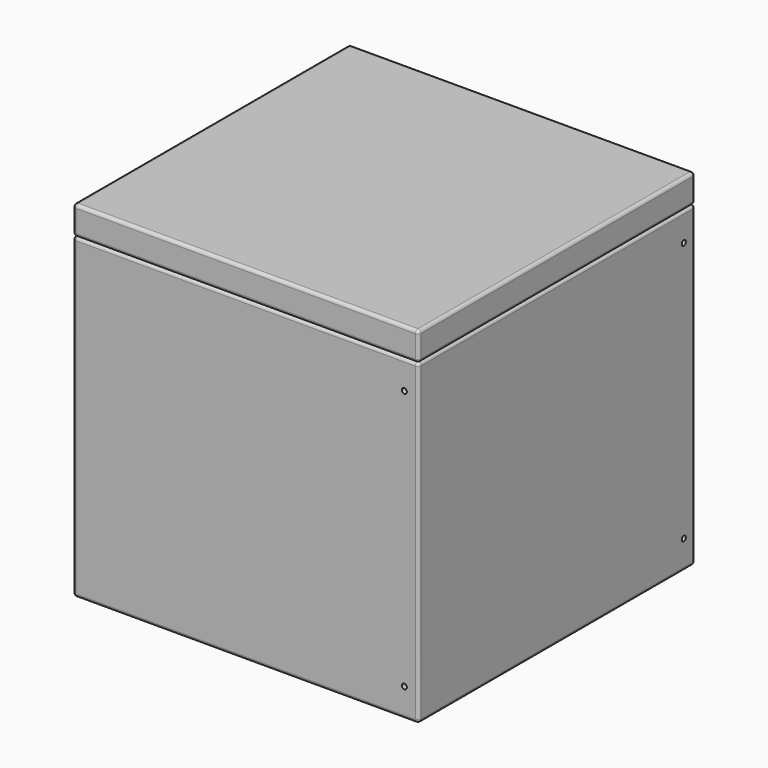
from build123d import *

# Parameters (mm, degrees)
F0_W      = 218
F0_H      = 218
F1_DEPTH  = 200
F2_T      = -18
F3_W      = 218
F3_H      = 218
F3_W_2    = 182
F3_H_2    = 182
F4_DEPTH  = 18
F5_R      = 2
F6_R      = 2
F7_W      = 40
F7_H      = 10
F8_DEPTH  = 1
F9_R      = 1.6
F10_DEPTH = 50
F11_R     = 1.6
F12_DEPTH = 50
F13_R     = 1.6
F14_DEPTH = 50
F15_R     = 1.6
F16_DEPTH = 50


with BuildPart() as f1:
    # F0 (on Top) → F1 (new body)
    with BuildSketch(Plane.XY):
        Rectangle(F0_W, F0_H)
    extrude(amount=F1_DEPTH)

    # F2
    f2_openings = [f1.faces().sort_by_distance(p)[0] for p in [
        (0, 0, 200),
    ]]
    offset(amount=F2_T, openings=f2_openings)

    # F6
    f6_edges = [f1.edges().sort_by_distance(p)[0] for p in [
        (-109, 0, 200),
        (-91, 0, 200),
        (0, 91, 200),
        (91, 0, 200),
        (0, -91, 200),
        (-91, -91, 109),
        (-91, 0, 18),
        (-91, 91, 109),
        (0, 91, 18),
        (91, 91, 109),
        (91, -91, 109),
        (91, 0, 18),
        (0, -91, 18),
        (0, 109, 200),
        (109, 0, 200),
        (0, -109, 200),
        (0, -109, 0),
        (-109, -109, 100),
        (109, -109, 100),
        (109, 0, 0),
        (109, 109, 100),
        (0, 109, 0),
        (-109, 109, 100),
        (-109, 0, 0),
    ]]
    fillet(f6_edges, radius=F6_R)


with BuildPart() as f4:
    # F3 (on face) → F4 (new body)
    with BuildSketch(Plane.XY.offset(200)):
        Rectangle(F3_W, F3_H)
        Rectangle(F3_W_2, F3_H_2, mode=Mode.SUBTRACT)
        Rectangle(F3_W_2, F3_H_2)
    extrude(amount=F4_DEPTH)

    # F5
    f5_edges = [f4.edges().sort_by_distance(p)[0] for p in [
        (0, 109, 200),
        (-109, 0, 200),
        (0, -109, 200),
        (109, 0, 200),
        (0, 109, 218),
        (-109, 0, 218),
        (0, -109, 218),
        (109, 0, 218),
        (109, 109, 209),
        (109, -109, 209),
        (-109, 109, 209),
        (-109, -109, 209),
    ]]
    fillet(f5_edges, radius=F5_R)


with BuildPart() as f8_tool:
    # F7 (on face) → F8 (new body)
    with BuildSketch(Plane(origin=(0, 109, 0), x_dir=(-1, 0, 0), z_dir=(0, 1, 0))):
        with Locations((-40, 207)):
            Rectangle(F7_W, F7_H)
        with Locations((-40, 193)):
            Rectangle(F7_W, F7_H)
        with Locations((40, 207)):
            Rectangle(F7_W, F7_H)
        with Locations((40, 193)):
            Rectangle(F7_W, F7_H)
    extrude(amount=-F8_DEPTH)


with BuildPart() as f1_1:
    add(f1.part)

    # F8: cut by f8_tool
    add(f8_tool.part, mode=Mode.SUBTRACT)

    # F9 (on face) → F10 (cut)
    with BuildSketch(Plane(origin=(0, 109, 0), x_dir=(-1, 0, 0), z_dir=(0, 1, 0))):
        with Locations((100, 18)):
            Circle(F9_R)
        with Locations((100, 182)):
            Circle(F9_R)
    extrude(amount=-F10_DEPTH, mode=Mode.SUBTRACT)

    # F11 (on face) → F12 (cut)
    with BuildSketch(Plane.YZ.offset(109)):
        with Locations((99.9999886, 182.0000066)):
            Circle(F11_R)
        with Locations((99.9999886, 17.9999934)):
            Circle(F11_R)
    extrude(amount=-F12_DEPTH, mode=Mode.SUBTRACT)

    # F13 (on face) → F14 (cut)
    with BuildSketch(Plane.XZ.offset(109)):
        with Locations((99.9999886, 182.0000066)):
            Circle(F13_R)
        with Locations((99.9999886, 17.9999934)):
            Circle(F13_R)
    extrude(amount=-F14_DEPTH, mode=Mode.SUBTRACT)

    # F15 (on face) → F16 (cut)
    with BuildSketch(Plane(origin=(-109, 0, 0), x_dir=(0, -1, 0), z_dir=(-1, 0, 0))):
        with Locations((99.9999886, 182.0000066)):
            Circle(F15_R)
        with Locations((99.9999886, 17.9999934)):
            Circle(F15_R)
    extrude(amount=-F16_DEPTH, mode=Mode.SUBTRACT)


with BuildPart() as f4_1:
    add(f4.part)

    # F8: cut by f8_tool
    add(f8_tool.part, mode=Mode.SUBTRACT)


solid = Compound([f1_1.part, f4_1.part])
